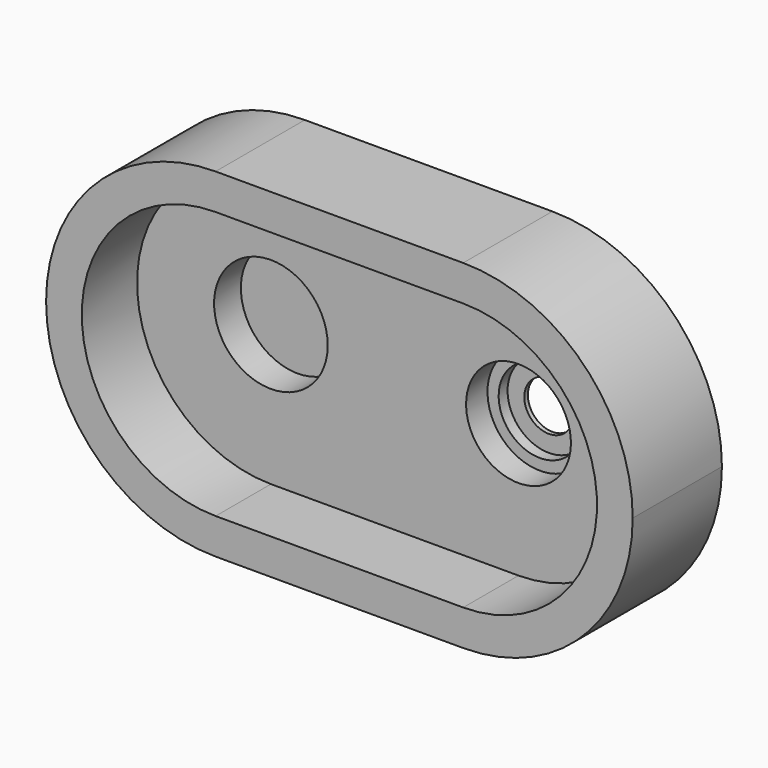
from build123d import *

# Parameters (mm, degrees)
F1_DEPTH = 50
F4_DEPTH = 31
F5_DEPTH = 31
F6_R     = 25.4726369524
F7_DEPTH = 15


with BuildPart() as f1:
    # F0 (on Front) → F1 (new body)
    with BuildSketch(Plane.XZ):
        with BuildLine():
            Line((111, 76), (0, 76))
            ThreePointArc((0, 76), (30.2492433933, 69.7207521053), (55.5, 51.9206124771))
            ThreePointArc((55.5, 51.9206124771), (80.7507566067, 69.7207521053), (111, 76))
        make_face()
        with BuildLine():
            ThreePointArc((55.5, 51.9206124771), (30.2492433933, 69.7207521053), (0, 76))
            ThreePointArc((0, 76), (-76, 0), (0, -76))
            ThreePointArc((0, -76), (30.2492433933, -69.7207521053), (55.5, -51.9206124771))
            ThreePointArc((55.5, -51.9206124771), (35, 0), (55.5, 51.9206124771))
        make_face()
        with BuildLine():
            ThreePointArc((76, 0), (70.6894617323, 27.9105714739), (55.5, 51.9206124771))
            ThreePointArc((55.5, 51.9206124771), (35, 0), (55.5, -51.9206124771))
            ThreePointArc((55.5, -51.9206124771), (70.6894617323, -27.9105714739), (76, 0))
        make_face()
        with BuildLine():
            ThreePointArc((111, 76), (80.7507566067, 69.7207521053), (55.5, 51.9206124771))
            ThreePointArc((55.5, 51.9206124771), (70.6894617323, 27.9105714739), (76, 0))
            ThreePointArc((76, 0), (70.6894617323, -27.9105714739), (55.5, -51.9206124771))
            ThreePointArc((55.5, -51.9206124771), (80.7507566067, -69.7207521053), (111, -76))
            ThreePointArc((111, -76), (164.7401153702, -53.7401153702), (187, 0))
            ThreePointArc((187, 0), (164.7401153702, 53.7401153702), (111, 76))
        make_face()
        with BuildLine():
            ThreePointArc((55.5, -51.9206124771), (30.2492433933, -69.7207521053), (0, -76))
            Line((0, -76), (111, -76))
            ThreePointArc((111, -76), (80.7507566067, -69.7207521053), (55.5, -51.9206124771))
        make_face()
    extrude(amount=F1_DEPTH)

    # F3 (on offset) → F4 (cut)
    with BuildSketch(Plane.XZ.offset(19)):
        with BuildLine():
            ThreePointArc((55.5, 22.7980262304), (33.407472414, 49.8391491391), (0, 60))
            ThreePointArc((0, 60), (-60, 0), (0, -60))
            ThreePointArc((0, -60), (33.407472414, -49.8391491391), (55.5, -22.7980262304))
            ThreePointArc((55.5, -22.7980262304), (51, 0), (55.5, 22.7980262304))
        make_face()
        with BuildLine():
            Line((111, 60), (0, 60))
            ThreePointArc((0, 60), (33.407472414, 49.8391491391), (55.5, 22.7980262304))
            ThreePointArc((55.5, 22.7980262304), (77.592527586, 49.8391491391), (111, 60))
        make_face()
        with BuildLine():
            ThreePointArc((55.5, -22.7980262304), (33.407472414, -49.8391491391), (0, -60))
            Line((0, -60), (111, -60))
            ThreePointArc((111, -60), (77.592527586, -49.8391491391), (55.5, -22.7980262304))
        make_face()
        with BuildLine():
            ThreePointArc((111, 60), (77.592527586, 49.8391491391), (55.5, 22.7980262304))
            ThreePointArc((55.5, 22.7980262304), (58.864250611, 11.6189500386), (60, 0))
            ThreePointArc((60, 0), (58.864250611, -11.6189500386), (55.5, -22.7980262304))
            ThreePointArc((55.5, -22.7980262304), (77.592527586, -49.8391491391), (111, -60))
            ThreePointArc((111, -60), (153.4264068712, -42.4264068712), (171, 0))
            ThreePointArc((171, 0), (153.4264068712, 42.4264068712), (111, 60))
        make_face()
    extrude(amount=F4_DEPTH, mode=Mode.SUBTRACT)

    # F5 (cut): a face of the model
    f5_faces = [f1.faces().sort_by_distance(p)[0] for p in [
        (55.5, -50, 0),
    ]]
    extrude(f5_faces, amount=-F5_DEPTH, mode=Mode.SUBTRACT)

    # F6 (on offset) → F7 (cut)
    with BuildSketch(Plane.XZ.offset(19)):
        with Locations((0, 3.0164269265)):
            Circle(F6_R)
    extrude(amount=-F7_DEPTH, mode=Mode.SUBTRACT)

    # F9 (on offset) → F10 (revolve, cut)
    with BuildSketch(Plane.YZ.offset(111)):
        Polygon((-19, 0), (0, 0), (0, 11), (-2, 11), (-2, 18.5), (-7, 18.5), (-7, 23.5), (-19, 23.5), align=None)
    revolve(axis=Axis((111, -12.6816760749, 0), (0, -1, 0)), mode=Mode.SUBTRACT)


solid = f1.part
